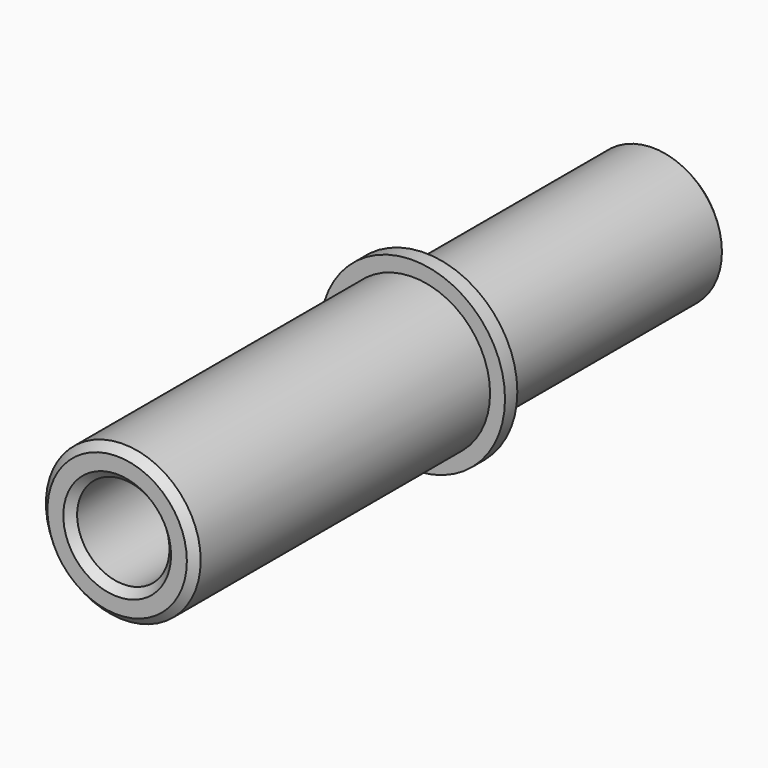
from build123d import *

# Parameters (mm, degrees)
F0_R      = 14.2621
F1_DEPTH  = 60.325
F2_R      = 19.05
F2_R_2    = 14.2621
F3_DEPTH  = 3.175
F5_R      = 15.9639
F6_DEPTH  = 76.2
F7_R      = 9.525
F8_DEPTH  = 139.701
F9_SIZE   = 1.5875
F9_2_SIZE = 1.5875


with BuildPart() as f1:
    # F0 (on Front) → F1 (new body)
    with BuildSketch(Plane.XZ):
        Circle(F0_R)
    extrude(amount=F1_DEPTH)


with BuildPart() as f3:
    # F2 (on face) → F3 (new body)
    with BuildSketch(Plane.XZ.offset(60.325)):
        Circle(F2_R)
        Circle(F2_R_2, mode=Mode.SUBTRACT)
        Circle(F2_R_2)
    extrude(amount=F3_DEPTH)

    # F5 (on face) → F6 (join)
    with BuildSketch(Plane.XZ.offset(63.5)):
        Circle(F5_R)
    extrude(amount=F6_DEPTH)


with BuildPart() as f8_tool:
    # F7 (on face) → F8 (new body, through all)
    with BuildSketch(Plane.XZ.offset(139.7)):
        Circle(F7_R)
    extrude(amount=-F8_DEPTH)


with BuildPart() as f1_1:
    add(f1.part)

    # F8: cut by f8_tool
    add(f8_tool.part, mode=Mode.SUBTRACT)

    # F9
    f9_edges = [f1_1.edges().sort_by_distance(p)[0] for p in [
        (-14.2621, 0, 0),
        (-9.525, 0, 0),
    ]]
    chamfer(f9_edges, length=F9_SIZE)


with BuildPart() as f3_1:
    add(f3.part)

    # F8: cut by f8_tool
    add(f8_tool.part, mode=Mode.SUBTRACT)

    # F9#2
    f9_2_edges = [f3_1.edges().sort_by_distance(p)[0] for p in [
        (-15.9639, -139.7, 0),
        (-9.525, -139.7, 0),
    ]]
    chamfer(f9_2_edges, length=F9_2_SIZE)


solid = Compound([f1_1.part, f3_1.part])
